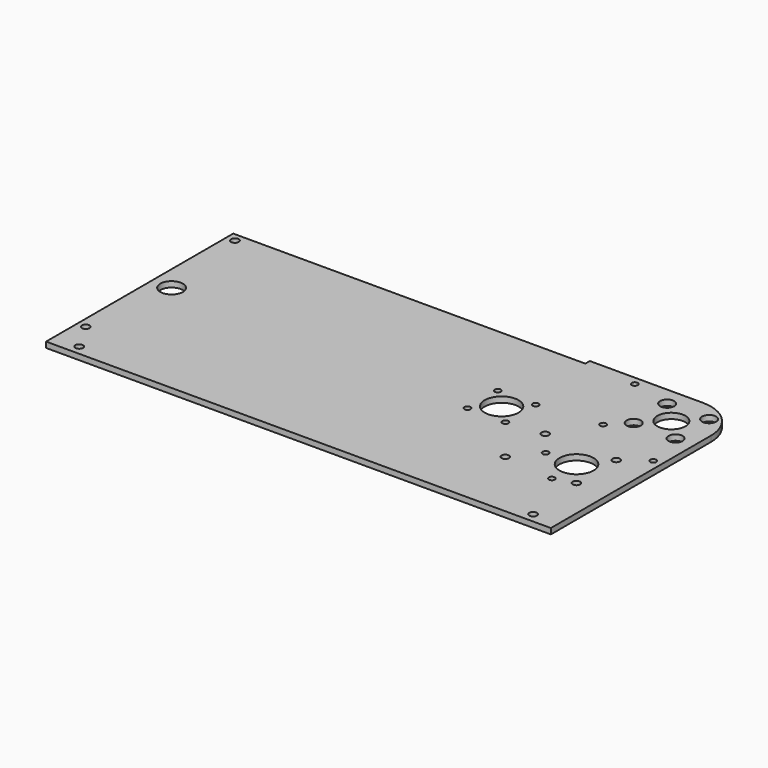
from build123d import *

# Parameters (mm, degrees)
F0_R     = 2.15265
F0_R_2   = 1.7272
F0_R_3   = 2.1
F0_R_4   = 9.587497
F0_R_5   = 6.35
F0_R_6   = 9.525
F0_R_7   = 3.96875
F0_R_8   = 7.9375
F1_DEPTH = 3.175


with BuildPart() as f1:
    # F0 (on Top) → F1 (new body)
    with BuildSketch(Plane.XY):
        with BuildLine():
            Line((0, 22.225), (-63.674803, 22.225))
            Line((-63.674803, 22.225), (-63.674803, 19.05))
            Line((-63.674803, 19.05), (-261.733055, 19.05))
            Line((-261.733055, 19.05), (-261.733055, -112.545774))
            Line((-261.733055, -112.545774), (22.225, -112.545774))
            Line((22.225, -112.545774), (22.225, -101.750774))
            Line((22.225, -101.750774), (22.225, 0))
            ThreePointArc((22.225, 0), (15.715448, 15.715448), (0, 22.225))
        make_face()
        with Locations((-247.445555, -107.148274)):
            Circle(F0_R, mode=Mode.SUBTRACT)
        with Locations((-256.970555, -90.638274)):
            Circle(F0_R, mode=Mode.SUBTRACT)
        with Locations((7.9375, -107.148274)):
            Circle(F0_R, mode=Mode.SUBTRACT)
        with Locations((-77.612206, -46.365761)):
            Circle(F0_R_2, mode=Mode.SUBTRACT)
        with Locations((-56.284097, -46.365761)):
            Circle(F0_R_2, mode=Mode.SUBTRACT)
        with Locations((-35.729847, -72.110361)):
            Circle(F0_R_3, mode=Mode.SUBTRACT)
        with Locations((-6.879837, -75.469965)):
            Circle(F0_R_2, mode=Mode.SUBTRACT)
        with Locations((4.270153, -72.110361)):
            Circle(F0_R_3, mode=Mode.SUBTRACT)
        with Locations((-24.239442, -58.110331)):
            Circle(F0_R_2, mode=Mode.SUBTRACT)
        with Locations((-6.879837, -58.110361)):
            Circle(F0_R_4, mode=Mode.SUBTRACT)
        with Locations((-250.620555, -38.175387)):
            Circle(F0_R_5, mode=Mode.SUBTRACT)
        with Locations((-256.970555, 14.2875)):
            Circle(F0_R, mode=Mode.SUBTRACT)
        with Locations((-66.948152, -35.701707)):
            Circle(F0_R_6, mode=Mode.SUBTRACT)
        with Locations((-77.612206, -25.037652)):
            Circle(F0_R_2, mode=Mode.SUBTRACT)
        with Locations((-56.284097, -25.037652)):
            Circle(F0_R_2, mode=Mode.SUBTRACT)
        with Locations((-35.729847, -44.110361)):
            Circle(F0_R_3, mode=Mode.SUBTRACT)
        with Locations((4.270153, -44.110361)):
            Circle(F0_R_3, mode=Mode.SUBTRACT)
        with Locations((17.4625, -34.548124)):
            Circle(F0_R_2, mode=Mode.SUBTRACT)
        with Locations((-21.328108, -21.328108)):
            Circle(F0_R_2, mode=Mode.SUBTRACT)
        with Locations((-11.786586, -11.786586)):
            Circle(F0_R_7, mode=Mode.SUBTRACT)
        with Locations((11.786586, -11.786586)):
            Circle(F0_R_7, mode=Mode.SUBTRACT)
        Circle(F0_R_8, mode=Mode.SUBTRACT)
        with Locations((-34.548124, 17.4625)):
            Circle(F0_R_2, mode=Mode.SUBTRACT)
        with Locations((-11.786586, 11.786586)):
            Circle(F0_R_7, mode=Mode.SUBTRACT)
        with Locations((11.786586, 11.786586)):
            Circle(F0_R_7, mode=Mode.SUBTRACT)
    extrude(amount=F1_DEPTH)


solid = f1.part
